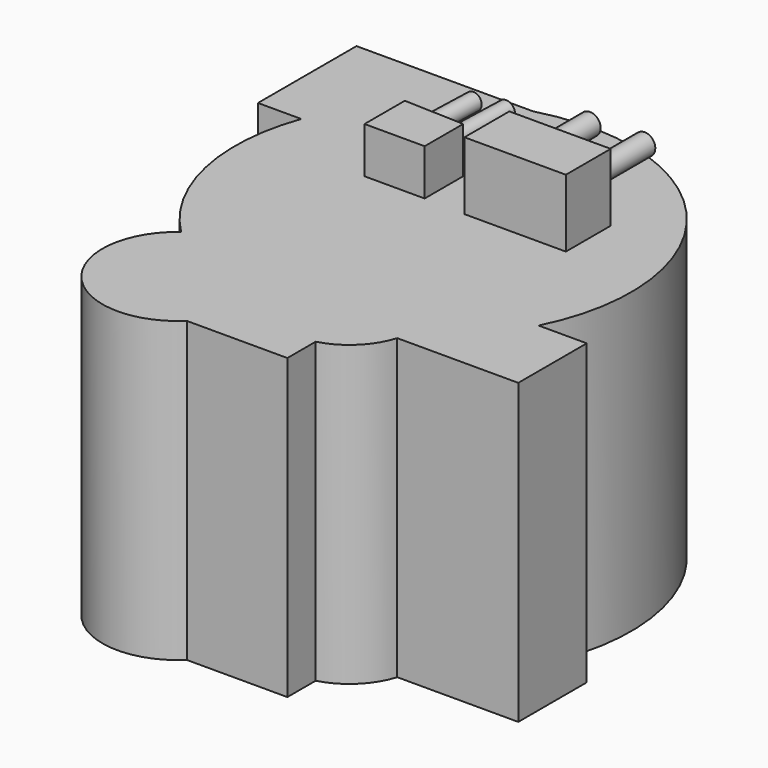
from build123d import *

# Parameters (mm, degrees)
F1_DEPTH  = 112.014
F3_DEPTH  = 17.272
F4_R      = 3.3623176789
F5_DEPTH  = 25.4
F6_R      = 3.1543384868
F7_DEPTH  = 25.4
F8_W      = 38.0456186831
F8_H      = 21.038826555
F9_DEPTH  = 25.4
F10_DEPTH = 8.382
F11_DEPTH = 10.414
F12_DEPTH = 9.652
F13_DEPTH = 11.684
F14_R     = 3.9810308691
F14_R_2   = 3.9967217836
F15_DEPTH = 25.4


with BuildPart() as f1:
    # F0 (on Top) → F1 (new body)
    with BuildSketch(Plane.XY):
        with BuildLine():
            ThreePointArc((-94.7144221793, 78.996181488), (-97.4408484509, 37.4965810895), (-77.4463454997, 1.029197235))
            ThreePointArc((-77.4463454997, 1.029197235), (-82.0851675961, -39.9590099953), (-40.8864470189, -42.0125983655))
            Line((-40.8864470189, -42.0125983655), (-3.1338073313, -42.0125983655))
            Line((-3.1338073313, -42.0125983655), (-3.1338073313, -28.7388270008))
            ThreePointArc((-3.1338073313, -28.7388270008), (7.6465004578, -22.6188809922), (14.1175022251, -12.0455697179))
            Line((14.1175022251, -12.0455697179), (59.5423281193, -12.0455697179))
            Line((59.5423281193, -12.0455697179), (59.5423281193, 20.0759489089))
            Line((59.5423281193, 20.0759489089), (41.4761226971, 20.0759489089))
            ThreePointArc((41.4761226971, 20.0759489089), (32.6284517751, 100.6595778454), (-44.6295377394, 125.2198219299))
            Line((-44.6295377394, 125.2198219299), (-110.9817028046, 125.2198219299))
            Line((-110.9817028046, 125.2198219299), (-110.9817028046, 78.996181488))
            Line((-110.9817028046, 78.996181488), (-94.7144221793, 78.996181488))
        make_face()
    extrude(amount=F1_DEPTH)

    # F2 (on face) → F3 (join)
    with BuildSketch(Plane.XY.offset(112.014)):
        Polygon((-34.9643416703, 80.2690163255), (-57.5213618577, 81.0558870435), (-57.5213618577, 62.1709451079), (-34.9643416703, 62.1709451079), align=None)
    extrude(amount=F3_DEPTH)

    # F4 (on face) → F5 (join)
    with BuildSketch(Plane(origin=(2.7541761254, 78.9532575536, 0), x_dir=(-0.9993921209, 0.0348624237, 0), z_dir=(0.0348624237, 0.9993921209, 0))):
        with Locations((42.88270697, 122.0109984279)):
            Circle(F4_R)
    extrude(amount=F5_DEPTH)

    # F6 (on face) → F7 (join)
    with BuildSketch(Plane(origin=(2.7541761254, 78.9532575536, 0), x_dir=(-0.9993921209, 0.0348624237, 0), z_dir=(0.0348624237, 0.9993921209, 0))):
        with Locations((55.5666647851, 120.65)):
            Circle(F6_R)
    extrude(amount=F7_DEPTH)

    # F8 (on face) → F9 (join)
    with BuildSketch(Plane.XY.offset(112.014)):
        with Locations((-0.6137024611, 72.2188074142)):
            Rectangle(F8_W, F8_H)
    extrude(amount=F9_DEPTH)

    # F10 (add): a face of the model
    f10_faces = [f1.faces().sort_by_distance(p)[0] for p in [
        (-0.6137024611, 72.2188074142, 137.414),
    ]]
    extrude(f10_faces, amount=-F10_DEPTH)

    # F11 (add): a face of the model
    f11_faces = [f1.faces().sort_by_distance(p)[0] for p in [
        (-0.6137024611, 72.2188074142, 137.414),
    ]]
    extrude(f11_faces, amount=-F11_DEPTH)

    # F12 (add): a face of the model
    f12_faces = [f1.faces().sort_by_distance(p)[0] for p in [
        (-0.6137024611, 72.2188074142, 137.414),
    ]]
    extrude(f12_faces, amount=-F12_DEPTH)

    # F13 (add): a face of the model
    f13_faces = [f1.faces().sort_by_distance(p)[0] for p in [
        (-0.6137024611, 72.2188074142, 137.414),
    ]]
    extrude(f13_faces, amount=-F13_DEPTH)

    # F14 (on face) → F15 (join)
    with BuildSketch(Plane(origin=(0, 82.7382206917, 0), x_dir=(-1, 0, 0), z_dir=(0, 1, 0))):
        with Locations((-10.8387600631, 126.1480897665)):
            Circle(F14_R)
        with Locations((9.6803465858, 126.1480897665)):
            Circle(F14_R_2)
    extrude(amount=F15_DEPTH)


solid = f1.part
